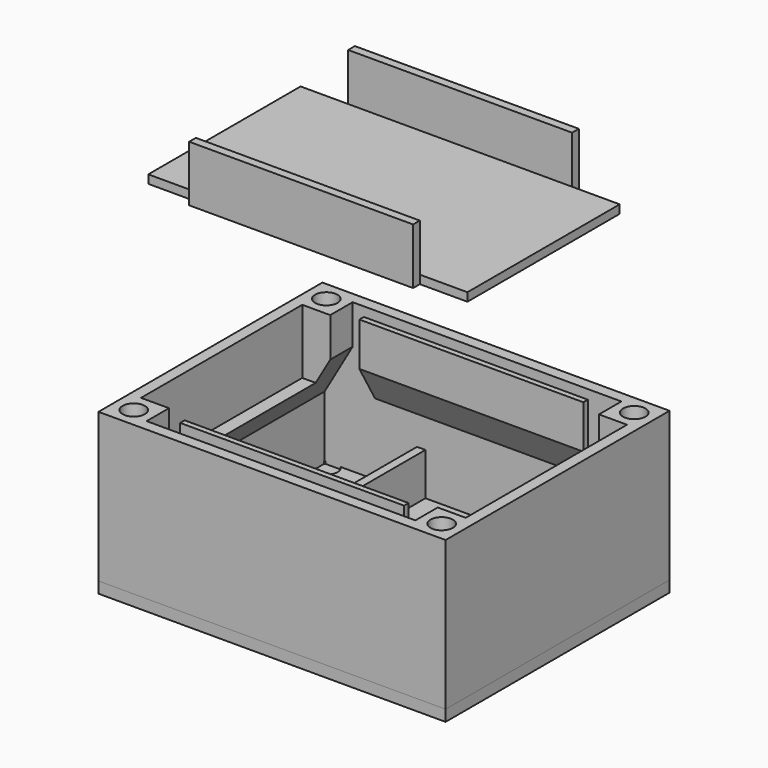
from build123d import *

# Parameters (mm, degrees)
SKETCH_W        = 62
SKETCH_H        = 50
PAD_DEPTH       = 1.6
SKETCH001_W     = 62
SKETCH001_H     = 50
SKETCH001_W_2   = 58
SKETCH001_H_2   = 46
PAD001_DEPTH    = 28.6
SKETCH002_R     = 4
SKETCH002_R_2   = 2
PAD002_DEPTH    = 6.1
PAD003_DEPTH    = 20
SKETCH004_W     = 8
SKETCH004_H     = 1.5
PAD004_DEPTH    = 9.6
PAD005_DEPTH    = 25
SKETCH006_W     = 58
SKETCH006_H     = 36
POCKET_DEPTH    = 11.5
SKETCH007_R     = 2
POCKET001_DEPTH = 5
PAD006_START    = 15
PAD006_DEPTH    = 10
PAD008_DEPTH    = 1.5
SKETCH011_W     = 1.5
SKETCH011_H     = 10
PAD009_DEPTH    = 20
SKETCH012_W     = 62
SKETCH012_H     = 50
SKETCH012_R     = 2
PAD010_DEPTH    = 2


with BuildPart() as box:
    # Sketch → Pad (new body)
    with BuildSketch(Plane.XY):
        Rectangle(SKETCH_W, SKETCH_H)
    extrude(amount=PAD_DEPTH)

    # Sketch001 → Pad001 (join)
    with BuildSketch(Plane.XY):
        Rectangle(SKETCH001_W, SKETCH001_H)
        Rectangle(SKETCH001_W_2, SKETCH001_H_2, mode=Mode.SUBTRACT)
    extrude(amount=PAD001_DEPTH)

    # Sketch002 → Pad002 (join)
    with BuildSketch(Plane.XY):
        with Locations((23, 11)):
            Circle(SKETCH002_R)
        with Locations((23, 11)):
            Circle(SKETCH002_R_2, mode=Mode.SUBTRACT)
        with Locations((23, -11)):
            Circle(SKETCH002_R)
        with Locations((23, -11)):
            Circle(SKETCH002_R_2, mode=Mode.SUBTRACT)
        with Locations((-8, 0)):
            Circle(SKETCH002_R_2)
    extrude(amount=PAD002_DEPTH)

    # Sketch003 → Pad003 (join, symmetric)
    with BuildSketch(Plane.YZ):
        Polygon((-23, 14.769873), (-19.5, 20.832051), (-19.5, 28.6), (-20.5, 28.6), (-20.5, 21.1), (-23, 16.769873), align=None)
        Polygon((19.5, 28.6), (19.5, 20.832051), (23, 14.769873), (23, 16.769873), (20.5, 21.1), (20.5, 28.6), align=None)
    extrude(amount=PAD003_DEPTH, both=True)

    # Sketch004 → Pad004 (join)
    with BuildSketch(Plane.XY):
        Polygon((-11, 25), (-12.5, 25), (-12.5, 6.5), (-19, 6.5), (-19, 5), (-11, 5), align=None)
        Polygon((-11, -25), (-11, -5), (-19, -5), (-19, -6.5), (-12.5, -6.5), (-12.5, -25), align=None)
        with Locations((-27, 5.75)):
            Rectangle(SKETCH004_W, SKETCH004_H)
        with Locations((-27, -5.75)):
            Rectangle(SKETCH004_W, SKETCH004_H)
    extrude(amount=PAD004_DEPTH)

    # Sketch005 → Pad005 (join, symmetric)
    with BuildSketch(Plane.XZ):
        Polygon((-31, 9.475644), (-31, 28.6), (-24, 28.6), (-24, 21.6), align=None)
        Polygon((31, 9.475644), (31, 28.6), (24, 28.6), (24, 21.6), align=None)
    extrude(amount=PAD005_DEPTH, both=True)

    # Sketch006 (on DatumPlane) → Pocket (cut)
    with BuildSketch(Plane.XY.offset(28.6)):
        Rectangle(SKETCH006_W, SKETCH006_H)
    extrude(amount=-POCKET_DEPTH, mode=Mode.SUBTRACT)

    # Sketch007 (on DatumPlane) → Pocket001 (cut)
    with BuildSketch(Plane.XY.offset(28.6)):
        with Locations((-27.5, 21.5)):
            Circle(SKETCH007_R)
        with Locations((27.5, 21.5)):
            Circle(SKETCH007_R)
        with Locations((27.5, -21.5)):
            Circle(SKETCH007_R)
        with Locations((-27.5, -21.5)):
            Circle(SKETCH007_R)
    extrude(amount=-POCKET001_DEPTH, mode=Mode.SUBTRACT)

    # Sketch008 → Pad006 (join)
    with BuildSketch(Plane.YZ.offset(PAD006_START)):
        Polygon((-25, 5.1), (-25, 4.1), (-15.5, 4.1), (-15.5, 0), (-14.5, 0), (-14.5, 5.1), align=None)
        Polygon((20.5, 0), (20.5, 9.6), (25, 9.6), (25, 10.6), (19.5, 10.6), (19.5, 0), align=None)
    extrude(amount=PAD006_DEPTH)


with BuildPart() as obj1:
    # Sketch010 → Pad008 (new body)
    with BuildSketch(Plane.XY):
        Polygon((28.5, 17), (28.5, -17), (18.5, -17), (18.5, -18.5), (-18.5, -18.5), (-18.5, -17), (-28.5, -17), (-28.5, 17), (-18.5, 17), (-18.5, 18.5), (18.5, 18.5), (18.5, 17), align=None)
    extrude(amount=PAD008_DEPTH)

    # Sketch011 → Pad009 (join, symmetric)
    with BuildSketch(Plane.YZ):
        with Locations((-17.75, 5)):
            Rectangle(SKETCH011_W, SKETCH011_H)
        with Locations((17.75, 5)):
            Rectangle(SKETCH011_W, SKETCH011_H)
    extrude(amount=PAD009_DEPTH, both=True)


with BuildPart() as obj1_1:
    # Body002 placement: moved
    add(obj1.part.moved(Location((0, 0, 62))))


with BuildPart() as lid:
    # Sketch012 → Pad010 (new body)
    with BuildSketch(Plane.XY):
        Rectangle(SKETCH012_W, SKETCH012_H)
        with Locations((-27.5, 21.5)):
            Circle(SKETCH012_R, mode=Mode.SUBTRACT)
        with Locations((27.5, 21.5)):
            Circle(SKETCH012_R, mode=Mode.SUBTRACT)
        with Locations((-27.5, -21.5)):
            Circle(SKETCH012_R, mode=Mode.SUBTRACT)
        with Locations((27.5, -21.5)):
            Circle(SKETCH012_R, mode=Mode.SUBTRACT)
    extrude(amount=PAD010_DEPTH)


solid = Compound([box.part, obj1_1.part, lid.part])
